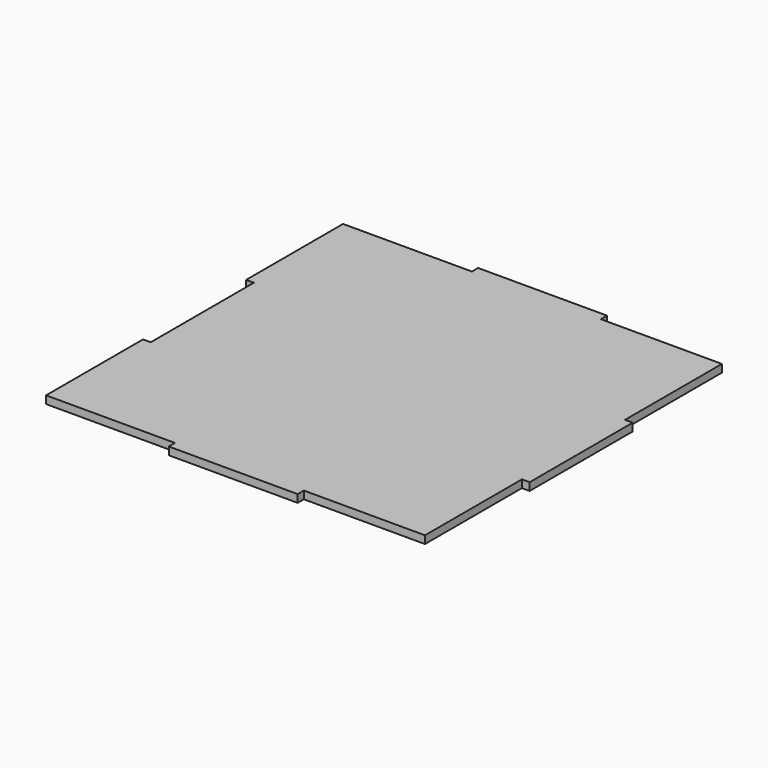
from build123d import *

# Parameters (mm, degrees)
F1_DEPTH = 3


with BuildPart() as f1:
    # F0 (on Top) → F1 (new body)
    with BuildSketch(Plane.XY):
        Polygon((25, 72), (25, 75), (-25, 75), (-25, 72), (-75, 72), (-75, 25), (-72, 25), (-72, -25), (-75, -25), (-75, -72), (-25, -72), (-25, -75), (25, -75), (25, -72), (72, -72), (72, -25), (75, -25), (75, 25), (72, 25), (72, 72), align=None)
    extrude(amount=F1_DEPTH)


solid = f1.part
